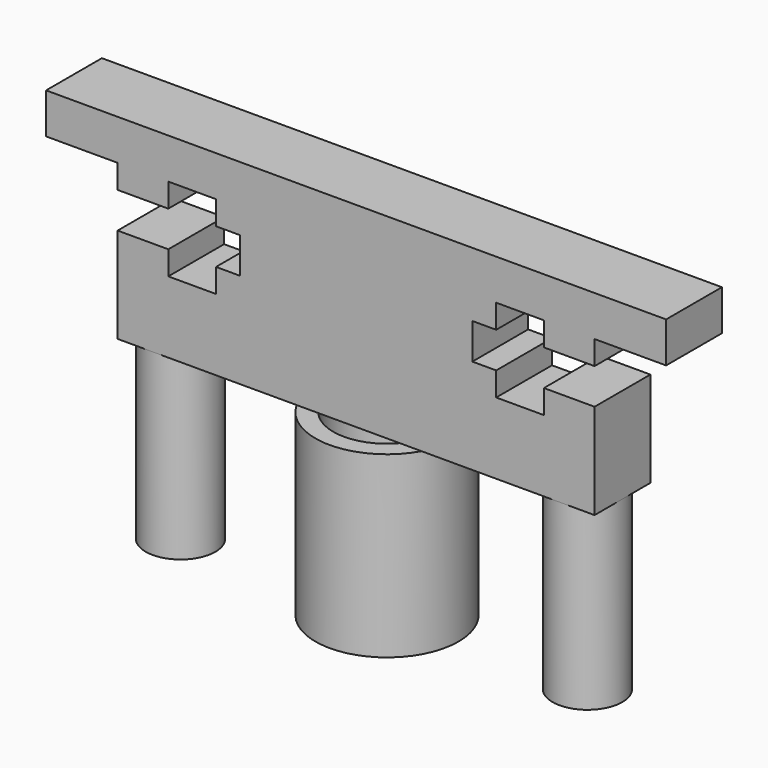
from build123d import *

# Parameters (mm, degrees)
F1_DEPTH = 5.85
F2_R     = 2.925
F2_R_2   = 2
F2_R_3   = 6
F2_R_4   = 4.5
F3_DEPTH = 15


with BuildPart() as f1:
    # F0 (on Front) → F1 (new body)
    with BuildSketch(Plane.XZ):
        Polygon((6.770361, 35.5), (-19.229639, 35.5), (-19.229639, 32.1), (-13.229639, 32.1), (-13.229639, 30.1), (-8.979639, 30.1), (-8.979639, 32.1), (-4.979639, 32.1), (-4.979639, 30.1), (-2.979639, 30.1), (-2.979639, 27.1), (-4.979639, 27.1), (-4.979639, 25.1), (-8.979639, 25.1), (-8.979639, 27.1), (-13.229639, 27.1), (-13.229639, 19.1), (6.770361, 19.1), align=None)
        Polygon((32.770361, 35.5), (6.770361, 35.5), (6.770361, 19.1), (26.770361, 19.1), (26.770361, 27.1), (22.520361, 27.1), (22.520361, 25.1), (18.520361, 25.1), (18.520361, 27.1), (16.520361, 27.1), (16.520361, 30.1), (18.520361, 30.1), (18.520361, 32.1), (22.520361, 32.1), (22.520361, 30.1), (26.770361, 30.1), (26.770361, 32.1), (32.770361, 32.1), align=None)
    extrude(amount=F1_DEPTH)

    # F2 (on face) → F3 (join)
    with BuildSketch(Plane(origin=(0, 0, 19.1), x_dir=(1, 0, 0), z_dir=(0, 0, -1))):
        with Locations((-10.292548, 2.925)):
            Circle(F2_R)
        with Locations((-10.292548, 2.925)):
            Circle(F2_R_2, mode=Mode.SUBTRACT)
        with Locations((23.83327, 2.925)):
            Circle(F2_R)
        with Locations((23.83327, 2.925)):
            Circle(F2_R_2, mode=Mode.SUBTRACT)
        with Locations((7.019587, 2.925)):
            Circle(F2_R_3)
        with Locations((7.019587, 2.925)):
            Circle(F2_R_4, mode=Mode.SUBTRACT)
    extrude(amount=F3_DEPTH)


solid = f1.part
